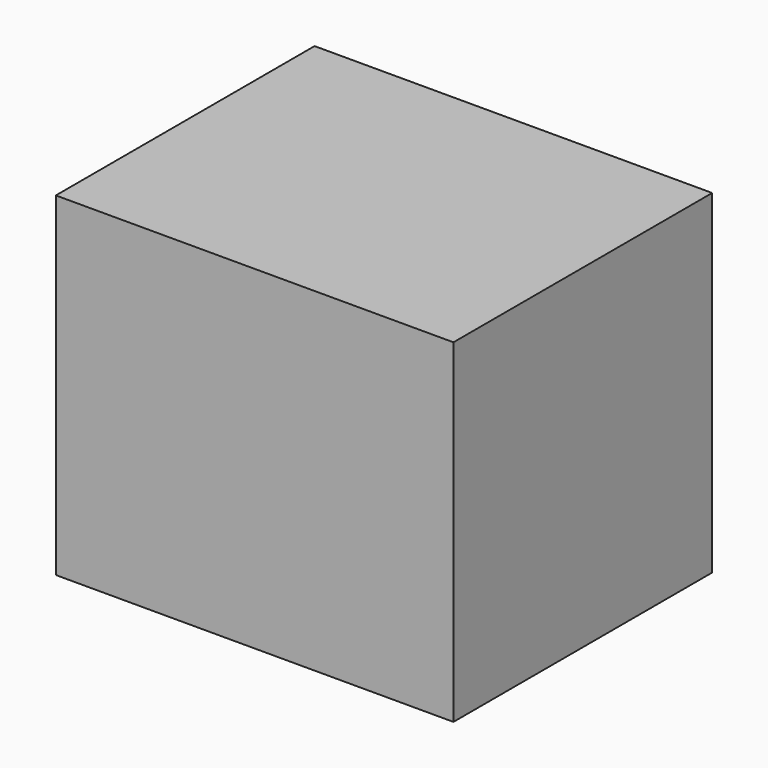
from build123d import *

# Parameters (mm, degrees)
F0_W     = 148.718535
F0_H     = 120.95774
F1_DEPTH = 25
F2_DEPTH = 100


with BuildPart() as f1:
    # F0 (on Top) → F1 (new body)
    with BuildSketch(Plane.XY):
        with Locations((-0.141635, -14.305305)):
            Rectangle(F0_W, F0_H)
    extrude(amount=F1_DEPTH)

    # F0 (on Top) → F2 (join)
    with BuildSketch(Plane.XY):
        with Locations((-0.141635, -14.305305)):
            Rectangle(F0_W, F0_H)
    extrude(amount=-F2_DEPTH)


solid = f1.part
